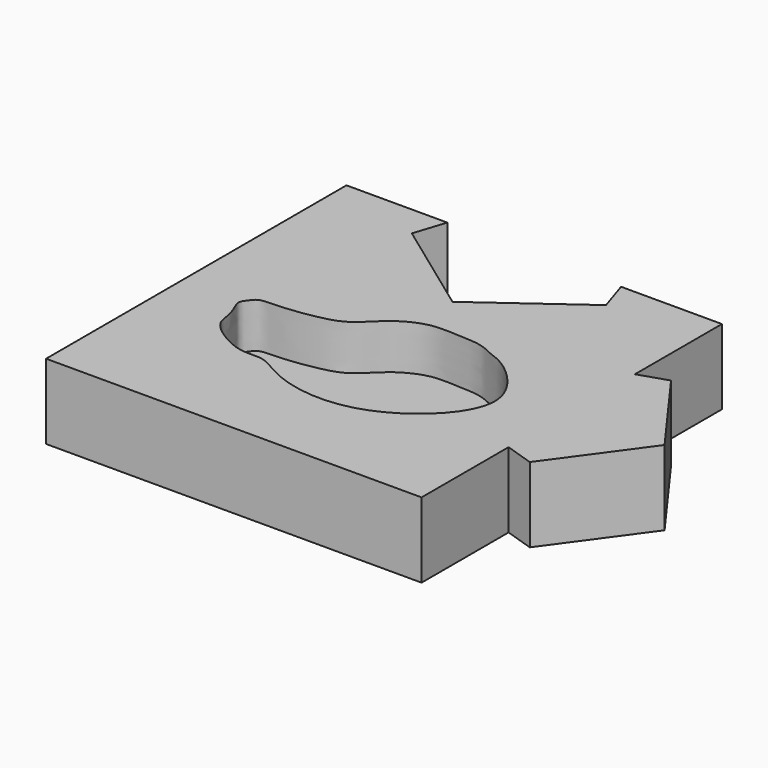
from build123d import *

# Parameters (mm, degrees)
F1_DEPTH = 10
F3_DEPTH = 6


with BuildPart() as f1:
    # F0 (on Top) → F1 (new body)
    with BuildSketch(Plane.XY):
        Polygon((-25, -25), (25, -25), (25, -10.5146222424), (15, -7.2654252801), (15, 7.2654252801), (25, 10.5146222424), (25, 25), (11.5660844666, 25), (12.9312755504, 20.7983738762), (0, 11.4032522475), (-12.9312755504, 20.7983738762), (-11.5660844666, 25), (-25, 25), align=None)
        Polygon((25, 10.5146222424), (25, -10.5146222424), (28.8196601125, -11.7557050458), (37.360679775, 0), (28.8196601125, 11.7557050458), align=None)
        Polygon((15, -7.2654252801), (25, -10.5146222424), (25, 10.5146222424), (15, 7.2654252801), align=None)
    extrude(amount=F1_DEPTH)

    # F2 (on face) → F3 (cut)
    with BuildSketch(Plane.XY.offset(10)):
        with BuildLine():
            add(Edge.make_bspline(
                [(-3.4188439604, -12.9493772984), (-0.6397202901, -14.1329003576), (8.4143063395, -15.5983673966), (21.1576328778, -3.801327599), (12.8818071961, 4.0360389939), (10.515092661, 4.5927595298), (8.4519650037, 5.8206779202), (4.7595819869, 5.8996977562), (1.6472171905, 6.0794246742), (-1.0500001141, 4.971253233), (-3.1108627293, 3.4839526297), (-5.4957122549, 0.8063558528), (-8.7731637564, -0.0727188525), (-13.1139681182, -0.7401184357), (-16.0545421282, -0.5872357559), (-16.6771902006, -1.5029384238), (-17.4769087791, -2.446252866), (-16.9717952171, -3.6256279747), (-16.2290398244, -5.3558118403), (-16.2279096223, -7.5189870163), (-13.480883319, -9.718428004), (-10.1722826968, -11.1879708871), (-7.1696289119, -10.5633794179), (-5.1519821685, -12.2112996604), (-3.4188439604, -12.9493772984)],
                knots=[0, 0, 0, 0, 0.0827742079, 0.1735335658, 0.2448119246, 0.2831193027, 0.3194128054, 0.3662707365, 0.4099526008, 0.4506521592, 0.4898550152, 0.5351465298, 0.5801294753, 0.6324758967, 0.6727826295, 0.6968432938, 0.7224407276, 0.7487676614, 0.7823396137, 0.817076607, 0.8617408254, 0.9081862896, 0.9483797199, 1, 1, 1, 1], degree=3))
        make_face()
    extrude(amount=-F3_DEPTH, mode=Mode.SUBTRACT)


solid = f1.part
